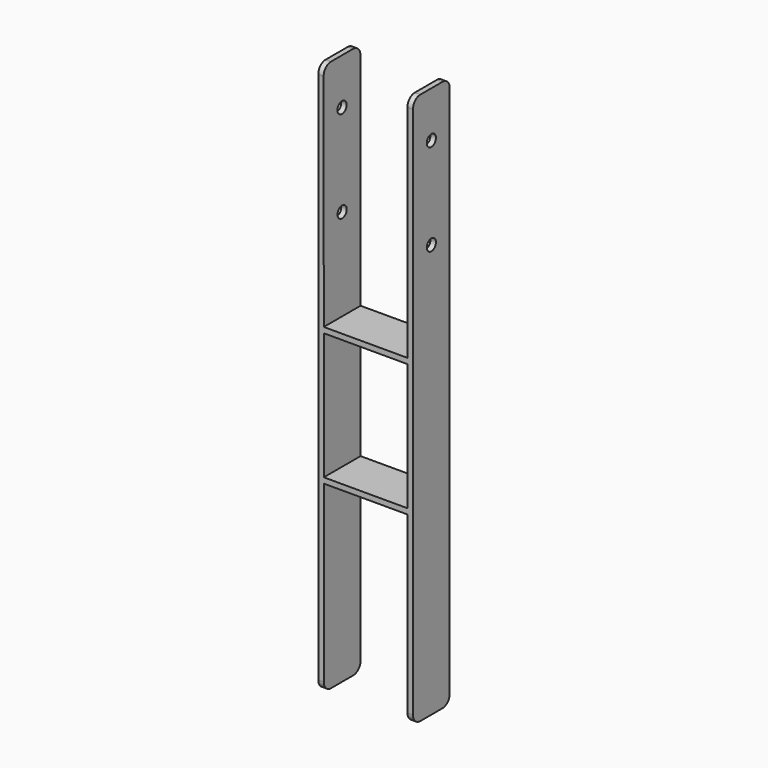
from build123d import *

# Parameters (mm, degrees)
F0_W     = 91
F0_H     = 138
F1_DEPTH = 25
F2_R     = 10
F3_R     = 6.25
F4_DEPTH = 103.001


with BuildPart() as f1:
    # F0 (on Front) → F1 (new body, symmetric)
    with BuildSketch(Plane.XZ):
        Polygon((45.5, 0), (-45.5, 0), (-45.696307, 250), (-51.5, 250), (-51.5, -350), (-45.5, -350), (-45.5, -150), (45.5, -150), (45.5, -350), (51.5, -350), (51.5, 250), (45.5, 250), align=None)
        with Locations((0, -75)):
            Rectangle(F0_W, F0_H, mode=Mode.SUBTRACT)
    extrude(amount=F1_DEPTH, both=True)

    # F2
    f2_edges = [f1.edges().sort_by_distance(p)[0] for p in [
        (48.5, -25, 250),
        (48.5, 25, 250),
        (-48.598153, -25, 250),
        (-48.598153, 25, 250),
        (48.5, -25, -350),
        (-48.5, -25, -350),
        (48.5, 25, -350),
        (-48.5, 25, -350),
    ]]
    fillet(f2_edges, radius=F2_R)

    # F3 (on face) → F4 (cut, through all)
    with BuildSketch(Plane.YZ.offset(51.5)):
        with Locations((0, 200)):
            Circle(F3_R)
        with Locations((0, 100)):
            Circle(F3_R)
    extrude(amount=-F4_DEPTH, mode=Mode.SUBTRACT)


solid = f1.part
